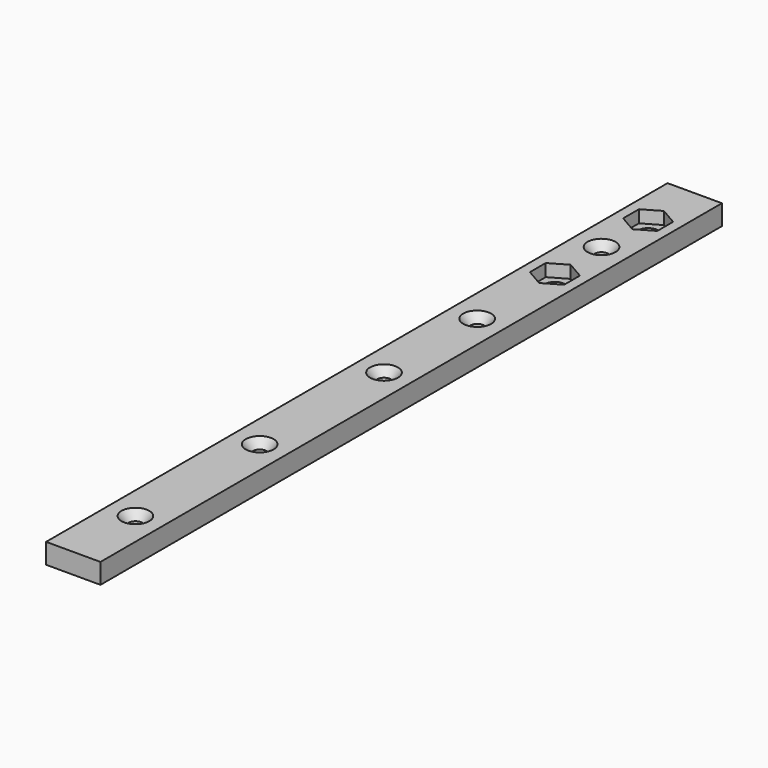
from build123d import *

# Parameters (mm, degrees)
F0_W           = 17.78
F0_H           = 254
F1_DEPTH       = 6.604
F0_R           = 3.3782
F2_DEPTH       = 2.54
F4_D           = 4.4958
F4_CSINK_D     = 9.1186
F4_CSINK_ANGLE = 82


with BuildPart() as f1:
    # F0 (on Top) → F1 (new body)
    with BuildSketch(Plane.XY):
        with Locations((3.0019969136, 40.122719574)):
            Rectangle(F0_W, F0_H)
        Polygon((8.5899969136, 113.1989528782), (8.5899969136, 106.7464862697), (3.0019969136, 103.5202529655), (-2.5860030864, 106.7464862697), (-2.5860030864, 113.1989528782), (3.0019969136, 116.4251861824), align=None, mode=Mode.SUBTRACT)
        Polygon((3.0019969136, 154.5251861824), (8.5899969136, 151.2989528782), (8.5899969136, 144.8464862697), (3.0019969136, 141.6202529655), (-2.5860030864, 144.8464862697), (-2.5860030864, 151.2989528782), align=None, mode=Mode.SUBTRACT)
    extrude(amount=F1_DEPTH)

    # F0 (on Top) → F2 (join)
    with BuildSketch(Plane.XY):
        Polygon((3.0019969136, 103.5202529655), (8.5899969136, 106.7464862697), (8.5899969136, 113.1989528782), (3.0019969136, 116.4251861824), (-2.5860030864, 113.1989528782), (-2.5860030864, 106.7464862697), align=None)
        with Locations((3.0019969136, 109.972719574)):
            Circle(F0_R, mode=Mode.SUBTRACT)
        Polygon((8.5899969136, 144.8464862697), (8.5899969136, 151.2989528782), (3.0019969136, 154.5251861824), (-2.5860030864, 151.2989528782), (-2.5860030864, 144.8464862697), (3.0019969136, 141.6202529655), align=None)
        with Locations((3.0019969136, 148.072719574)):
            Circle(F0_R, mode=Mode.SUBTRACT)
    extrude(amount=F2_DEPTH)

    # F4 (through all)
    with Locations(Plane.XY.offset(6.604)):
        with Locations((3.0019969136, 129.022719574), (3.0019969136, 78.222719574), (3.0019969136, 40.122719574), (3.0019969136, -10.677280426), (3.0019969136, -61.477280426)):
            CounterSinkHole(F4_D / 2, F4_CSINK_D / 2, counter_sink_angle=F4_CSINK_ANGLE)


solid = f1.part
